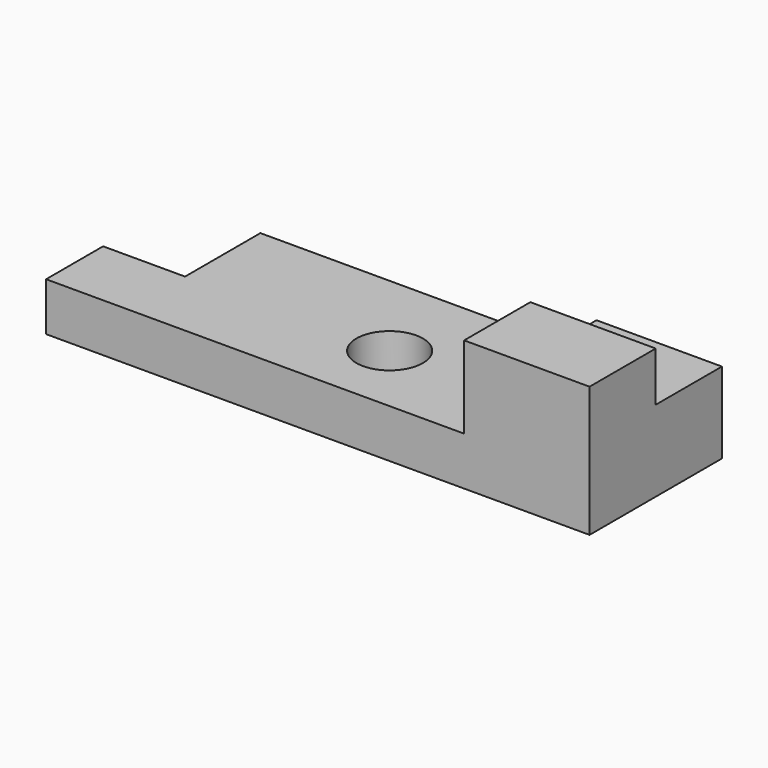
from build123d import *

# Parameters (mm, degrees)
F0_W     = 114.3
F0_H     = 10.170036
F1_DEPTH = 34.798
F2_W     = 17.233886
F2_H     = 19.807858
F3_DEPTH = 25.4
F4_R     = 6.99841
F5_DEPTH = 25.4
F6_W     = 26.374524
F6_H     = 34.798
F7_DEPTH = 17.272
F8_W     = 26.374524
F8_H     = 17.399
F9_DEPTH = 10.414


with BuildPart() as f1:
    # F0 (on Front) → F1 (new body)
    with BuildSketch(Plane.XZ):
        with Locations((6.0662, 5.085018)):
            Rectangle(F0_W, F0_H)
    extrude(amount=F1_DEPTH)

    # F2 (on face) → F3 (cut)
    with BuildSketch(Plane.XY.offset(10.170036)):
        with Locations((-42.466857, -9.903929)):
            Rectangle(F2_W, F2_H)
    extrude(amount=-F3_DEPTH, mode=Mode.SUBTRACT)

    # F4 (on face) → F5 (cut)
    with BuildSketch(Plane.XY.offset(10.170036)):
        with Locations((8.868933, -19.421801)):
            Circle(F4_R)
    extrude(amount=-F5_DEPTH, mode=Mode.SUBTRACT)

    # F6 (on face) → F7 (join)
    with BuildSketch(Plane.XY.offset(10.170036)):
        with Locations((50.028938, -17.399)):
            Rectangle(F6_W, F6_H)
    extrude(amount=F7_DEPTH)

    # F8 (on face) → F9 (cut)
    with BuildSketch(Plane.XY.offset(27.442036)):
        with Locations((50.028938, -8.6995)):
            Rectangle(F8_W, F8_H)
    extrude(amount=-F9_DEPTH, mode=Mode.SUBTRACT)


solid = f1.part
